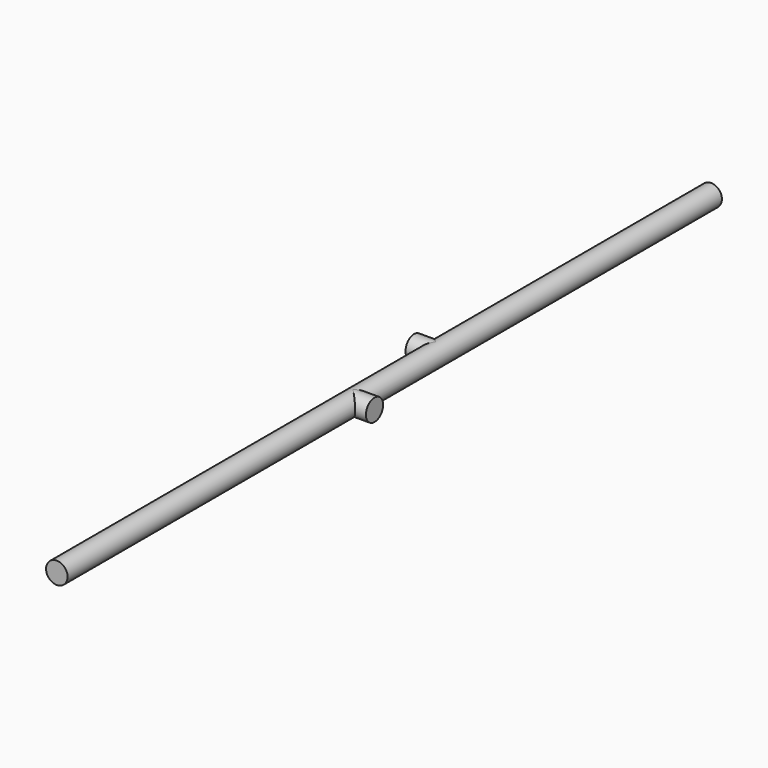
from build123d import *

# Parameters (mm, degrees)
F0_R     = 3.175
F1_DEPTH = 241.3
F4_DEPTH = 6.35
F6_DEPTH = 6.35


with BuildPart() as f1:
    # F0 (on Front) → F1 (new body)
    with BuildSketch(Plane.XZ):
        Circle(F0_R)
    extrude(amount=-F1_DEPTH)

    # F3 (on Right) → F4 (join)
    with BuildSketch(Plane.YZ):
        with BuildLine():
            ThreePointArc((106.045, 0), (109.22, -3.175), (112.395, 0))
            Line((112.395, 0), (106.045, 0))
        make_face()
        with BuildLine():
            Line((106.045, 0), (112.395, 0))
            ThreePointArc((112.395, 0), (109.22, 3.175), (106.045, 0))
        make_face()
    extrude(amount=F4_DEPTH)

    # F5 (on Right) → F6 (join)
    with BuildSketch(Plane.YZ):
        with BuildLine():
            ThreePointArc((136.525, 0), (139.7, -3.175), (142.875, 0))
            Line((142.875, 0), (136.525, 0))
        make_face()
        with BuildLine():
            Line((136.525, 0), (142.875, 0))
            ThreePointArc((142.875, 0), (139.7, 3.175), (136.525, 0))
        make_face()
    extrude(amount=-F6_DEPTH)


solid = f1.part
